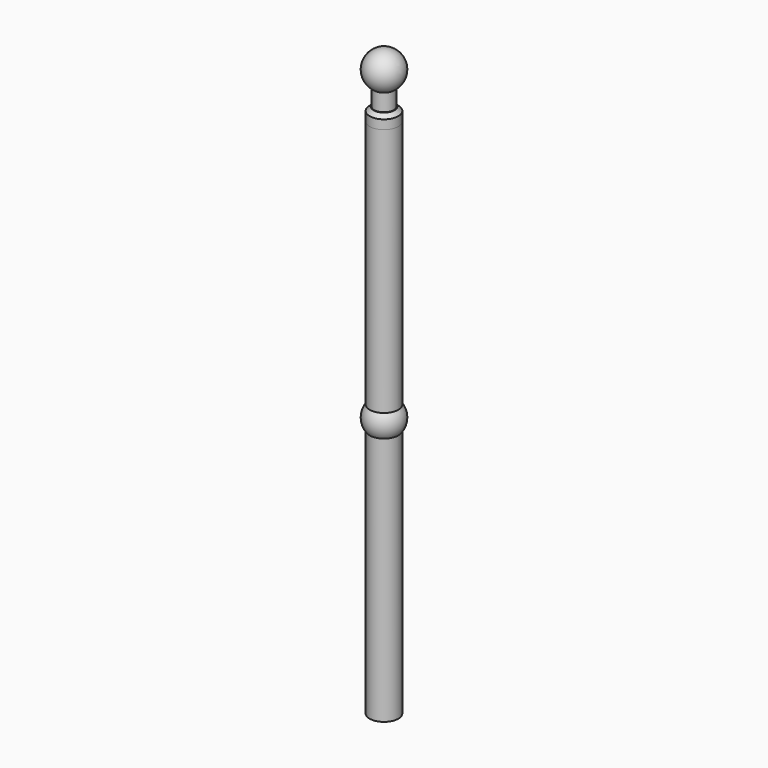
from build123d import *

# Parameters (mm, degrees)
F0_R     = 11
F0_R_2   = 10
F1_DEPTH = 200
F4_R     = 10
F4_R_2   = 7.5
F5_DEPTH = 25
F4_R_3   = 11
F6_DEPTH = 10
F7_DEPTH = 35
F8_SIZE  = 3


with BuildPart() as f1:
    # F0 (on Top) → F1 (new body, symmetric)
    with BuildSketch(Plane.XY):
        Circle(F0_R)
        Circle(F0_R_2, mode=Mode.SUBTRACT)
    extrude(amount=F1_DEPTH, both=True)

    # F2 (on Front) → F3 (revolve)
    with BuildSketch(Plane.XZ):
        with BuildLine():
            Line((10, 9.7979589711), (10, -9.7979589711))
            ThreePointArc((10, -9.7979589711), (14, 0), (10, 9.7979589711))
        make_face()
    revolve(axis=Axis((0, 0, 0), (0, 0, 1)))


with BuildPart() as f5:
    # F4 (on face) → F5 (new body)
    with BuildSketch(Plane.XY.offset(200)):
        Circle(F4_R)
        Circle(F4_R_2, mode=Mode.SUBTRACT)
        Circle(F4_R_2)
    extrude(amount=-F5_DEPTH)



with BuildPart() as f6:
    # F4 (on face) → F6 (new body)
    with BuildSketch(Plane.XY.offset(200)):
        Circle(F4_R_3)
        Circle(F4_R, mode=Mode.SUBTRACT)
        Circle(F4_R)
        Circle(F4_R_2, mode=Mode.SUBTRACT)
    extrude(amount=F6_DEPTH)


with BuildPart() as f5_1:
    add(f5.part)

    add(f6.part)  # F7 merges F6
    # F4 (on face) → F7 (join)
    with BuildSketch(Plane.XY.offset(200)):
        Circle(F4_R_2)
    extrude(amount=F7_DEPTH)

    # F8
    f8_edges = [f5_1.edges().sort_by_distance(p)[0] for p in [
        (-11, 0, 210),
    ]]
    chamfer(f8_edges, length=F8_SIZE)

    # F9 (on Front) → F10 (revolve)
    with BuildSketch(Plane.XZ):
        with BuildLine():
            Line((0, 249), (0, 221))
            ThreePointArc((0, 221), (14, 235), (0, 249))
        make_face()
    revolve(axis=Axis((0, 0, 200), (0, 0, -1)))


solid = Compound([f1.part, f5_1.part])
